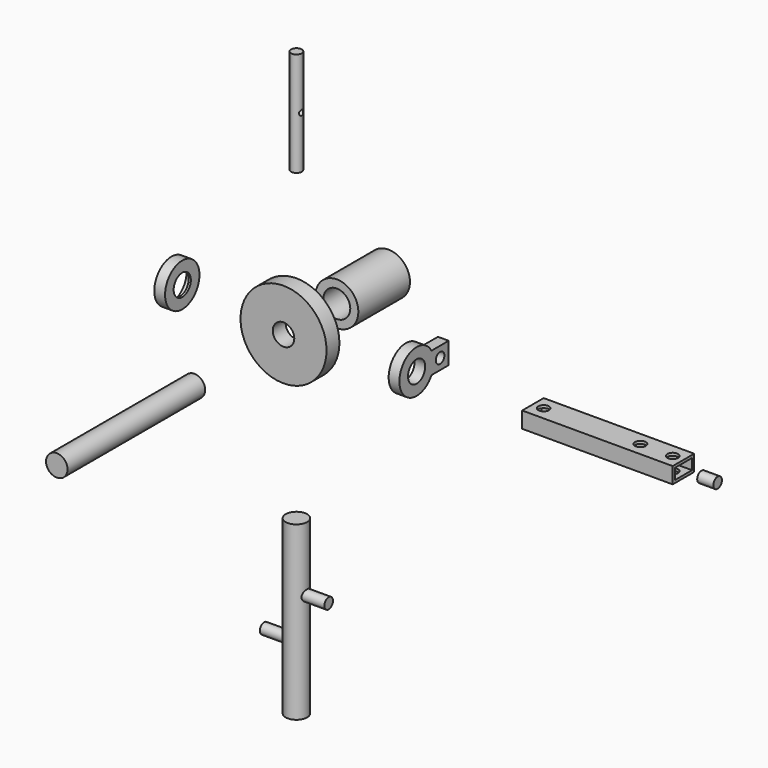
from build123d import *

# Parameters (mm, degrees)
F0_R           = 50.8
F0_R_2         = 12.7
F1_DEPTH       = 19.05
F3_R           = 25.4
F3_R_2         = 12.7
F4_DEPTH       = 12.7
F5_R           = 22.225
F6_DEPTH       = 10.16
F8_R           = 12.7
F8_R_2         = 6.35
F9_DEPTH       = 12.7
F11_R          = 25.4
F11_R_2        = 15.875
F12_DEPTH      = 76.2
F14_R          = 12.7
F15_DEPTH      = 203.2
F17_R          = 6.35
F18_DEPTH      = 123.19
F19_R          = 3.175
F20_DEPTH      = 25.4
F20_DEPTH_BACK = 25.4
F22_R          = 12.7
F23_DEPTH      = 203.2
F24_R          = 6.35
F25_DEPTH      = 38.1
F26_DEPTH      = 38.1
F28_W          = 31.75
F28_H          = 19.05
F29_DEPTH      = 177.8
F30_W          = 25.4
F30_H          = 12.7
F31_DEPTH      = 592.075
F32_R          = 6.35
F33_DEPTH      = 401.8290001
F35_R          = 6.35
F36_DEPTH      = 19.05


with BuildPart() as f1:
    # F0 (on Front) → F1 (new body)
    with BuildSketch(Plane.XZ):
        Circle(F0_R)
        Circle(F0_R_2, mode=Mode.SUBTRACT)
    extrude(amount=F1_DEPTH)


with BuildPart() as f4:
    # F3 (on offset) → F4 (new body)
    with BuildSketch(Plane.YZ.offset(-147.574)):
        Circle(F3_R)
        Circle(F3_R_2, mode=Mode.SUBTRACT)
    extrude(amount=F4_DEPTH)

    # F5 (on face) → F6 (cut)
    with BuildSketch(Plane(origin=(-147.574, 0, 0), x_dir=(0, -1, 0), z_dir=(-1, 0, 0))):
        Circle(F5_R)
    extrude(amount=-F6_DEPTH, mode=Mode.SUBTRACT)


with BuildPart() as f9:
    # F8 (on offset) → F9 (new body)
    with BuildSketch(Plane.YZ.offset(129.286)):
        with BuildLine():
            ThreePointArc((21.9970452561, -12.7), (24.5345159877, -6.5740037456), (25.4, 0))
            ThreePointArc((25.4, 0), (24.5345159877, 6.5740037456), (21.9970452561, 12.7))
            ThreePointArc((21.9970452561, 12.7), (-25.4, 0), (21.9970452561, -12.7))
        make_face()
        Circle(F8_R, mode=Mode.SUBTRACT)
        with BuildLine():
            ThreePointArc((21.9970452561, 12.7), (24.5345159877, 6.5740037456), (25.4, 0))
            ThreePointArc((25.4, 0), (24.5345159877, -6.5740037456), (21.9970452561, -12.7))
            Line((21.9970452561, -12.7), (47.3970452561, -12.7))
            Line((47.3970452561, -12.7), (47.3970452561, 0))
            Line((47.3970452561, 0), (47.3970452561, 12.7))
            Line((47.3970452561, 12.7), (21.9970452561, 12.7))
        make_face()
        with Locations((34.6970452561, 0)):
            Circle(F8_R_2, mode=Mode.SUBTRACT)
    extrude(amount=F9_DEPTH)


with BuildPart() as f12:
    # F11 (on offset) → F12 (new body)
    with BuildSketch(Plane.XZ.offset(-135.89)):
        Circle(F11_R)
        Circle(F11_R_2, mode=Mode.SUBTRACT)
    extrude(amount=F12_DEPTH)


with BuildPart() as f15:
    # F14 (on offset) → F15 (new body)
    with BuildSketch(Plane.XZ.offset(150.622)):
        Circle(F14_R)
    extrude(amount=F15_DEPTH)


with BuildPart() as f18:
    # F17 (on offset) → F18 (new body)
    with BuildSketch(Plane.XY.offset(163.576)):
        Circle(F17_R)
    extrude(amount=F18_DEPTH)

    # F19 (on Right) → F20 (cut, two sides)
    with BuildSketch(Plane.YZ) as f20_sk:
        with Locations((0, 225.171)):
            Circle(F19_R)
    extrude(amount=-F20_DEPTH, mode=Mode.SUBTRACT)
    extrude(f20_sk.sketch, amount=F20_DEPTH_BACK, mode=Mode.SUBTRACT)


with BuildPart() as f23:
    # F22 (on offset) → F23 (new body)
    with BuildSketch(Plane.XY.offset(-198.628)):
        Circle(F22_R)
    extrude(amount=-F23_DEPTH)

    # F24 (on Right) → F25 (join)
    with BuildSketch(Plane.YZ):
        with Locations((0, -274.828)):
            Circle(F24_R)
    extrude(amount=F25_DEPTH)

    # F24 (on Right) → F26 (join)
    with BuildSketch(Plane.YZ):
        with Locations((0, -325.628)):
            Circle(F24_R)
    extrude(amount=-F26_DEPTH)


with BuildPart() as f29:
    # F28 (on offset) → F29 (new body)
    with BuildSketch(Plane.YZ.offset(266.7)):
        with Locations((15.875, -9.525)):
            Rectangle(F28_W, F28_H)
    extrude(amount=F29_DEPTH)

    # F30 (on face) → F31 (cut, through all)
    with BuildSketch(Plane.YZ.offset(444.5)):
        with Locations((15.875, -9.525)):
            Rectangle(F30_W, F30_H)
    extrude(amount=-F31_DEPTH, mode=Mode.SUBTRACT)

    # F32 (on face) → F33 (cut, through all)
    with BuildSketch(Plane.XY):
        with Locations((279.4, 15.875)):
            Circle(F32_R)
        with Locations((431.8, 15.875)):
            Circle(F32_R)
        with Locations((393.7, 15.875)):
            Circle(F32_R)
    extrude(amount=-F33_DEPTH, mode=Mode.SUBTRACT)


with BuildPart() as f36:
    # F35 (on offset) → F36 (new body)
    with BuildSketch(Plane.YZ.offset(478.536)):
        Circle(F35_R)
    extrude(amount=F36_DEPTH)


solid = Compound([f1.part, f4.part, f9.part, f12.part, f15.part, f18.part, f23.part, f29.part, f36.part])
